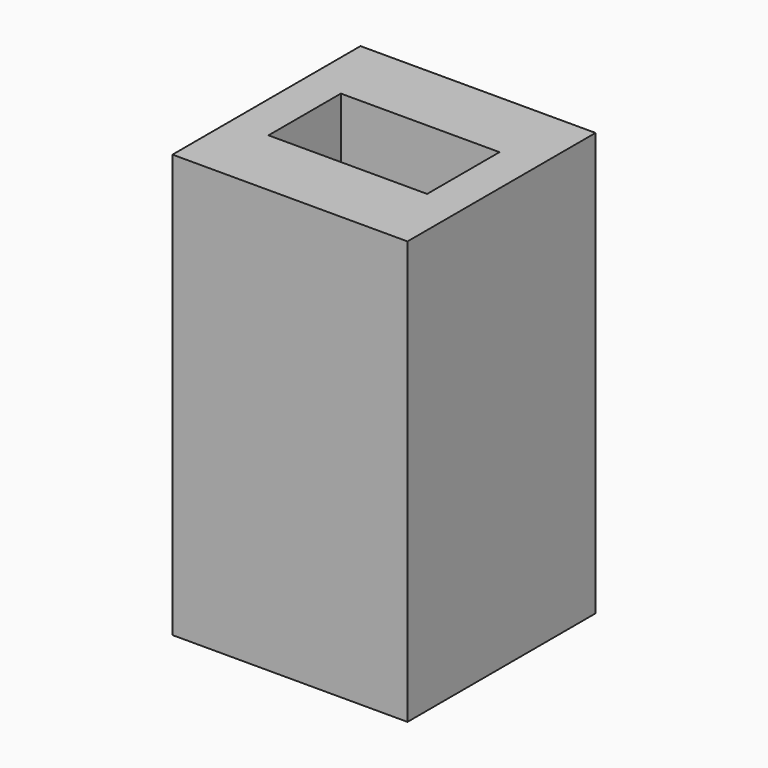
from build123d import *

# Parameters (mm, degrees)
F0_W     = 20
F0_H     = 20
F0_W_2   = 13.5
F0_H_2   = 7.7
F1_DEPTH = 26
F2_W     = 20
F2_H     = 20
F2_W_2   = 5
F2_H_2   = 7.7
F3_DEPTH = 10
F4_R     = 1.4
F5_DEPTH = 10


with BuildPart() as f1:
    # F0 (on Top) → F1 (new body)
    with BuildSketch(Plane.XY):
        Rectangle(F0_W, F0_H)
        Rectangle(F0_W_2, F0_H_2, mode=Mode.SUBTRACT)
    extrude(amount=F1_DEPTH)

    # F2 (on Top) → F3 (join)
    with BuildSketch(Plane.XY):
        Rectangle(F2_W, F2_H)
        with Locations((-4.25, 0)):
            Rectangle(F2_W_2, F2_H_2, mode=Mode.SUBTRACT)
    extrude(amount=-F3_DEPTH)

    # F4 (on face) → F5 (cut)
    with BuildSketch(Plane(origin=(0, 0, -10), x_dir=(1, 0, 0), z_dir=(0, 0, -1))):
        with Locations((4, 4)):
            Circle(F4_R)
        with Locations((4, -4)):
            Circle(F4_R)
    extrude(amount=-F5_DEPTH, mode=Mode.SUBTRACT)


solid = f1.part
